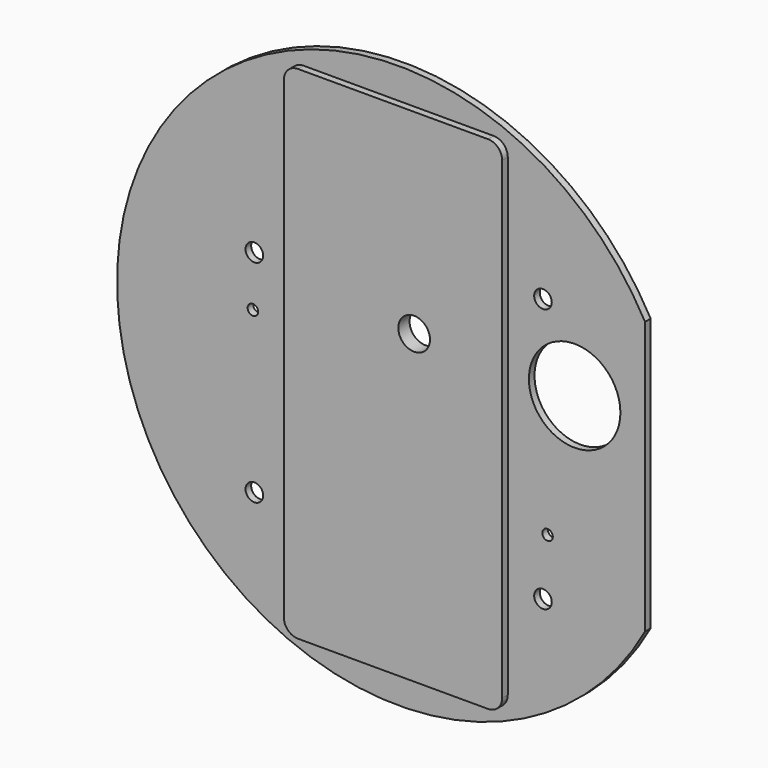
from build123d import *

# Parameters (mm, degrees)
F1_DEPTH  = 2
F2_W      = 62
F2_H      = 142.5
F3_DEPTH  = 2
F4_R      = 4
F5_R      = 4.5
F6_DEPTH  = 4
F7_R      = 13
F8_DEPTH  = 2
F9_R      = 2.5
F10_DEPTH = 2
F11_R     = 1.5
F12_DEPTH = 2


with BuildPart() as f1:
    # F0 (on Front) → F1 (new body)
    with BuildSketch(Plane.XZ):
        with BuildLine():
            ThreePointArc((70, 38.729833), (-80, 0), (70, -38.729833))
            Line((70, -38.729833), (70, 38.729833))
        make_face()
    extrude(amount=F1_DEPTH)

    # F2 (on face) → F3 (join)
    with BuildSketch(Plane.XZ.offset(2)):
        Rectangle(F2_W, F2_H)
    extrude(amount=F3_DEPTH)

    # F4
    f4_edges = [f1.edges().sort_by_distance(p)[0] for p in [
        (-31, -3, -71.25),
        (31, -3, -71.25),
        (31, -3, 71.25),
        (-31, -3, 71.25),
    ]]
    fillet(f4_edges, radius=F4_R)

    # F5 (on face) → F6 (cut)
    with BuildSketch(Plane.XZ.offset(4)):
        with Locations((6, 15.75)):
            Circle(F5_R)
    extrude(amount=-F6_DEPTH, mode=Mode.SUBTRACT)

    # F7 (on face) → F8 (cut)
    with BuildSketch(Plane.XZ.offset(2)):
        with Locations((50, 13.729833)):
            Circle(F7_R)
    extrude(amount=-F8_DEPTH, mode=Mode.SUBTRACT)

    # F9 (on face) → F10 (cut)
    with BuildSketch(Plane.XZ.offset(2)):
        with Locations((-41, 20)):
            Circle(F9_R)
        with Locations((-41, -40)):
            Circle(F9_R)
        with Locations((41, 35)):
            Circle(F9_R)
        with Locations((41, -40)):
            Circle(F9_R)
    extrude(amount=-F10_DEPTH, mode=Mode.SUBTRACT)

    # F11 (on face) → F12 (cut)
    with BuildSketch(Plane.XZ.offset(2)):
        with Locations((-41.405737, 5.505678)):
            Circle(F11_R)
        with Locations((42.2996, -23.55126)):
            Circle(F11_R)
    extrude(amount=-F12_DEPTH, mode=Mode.SUBTRACT)


solid = f1.part
